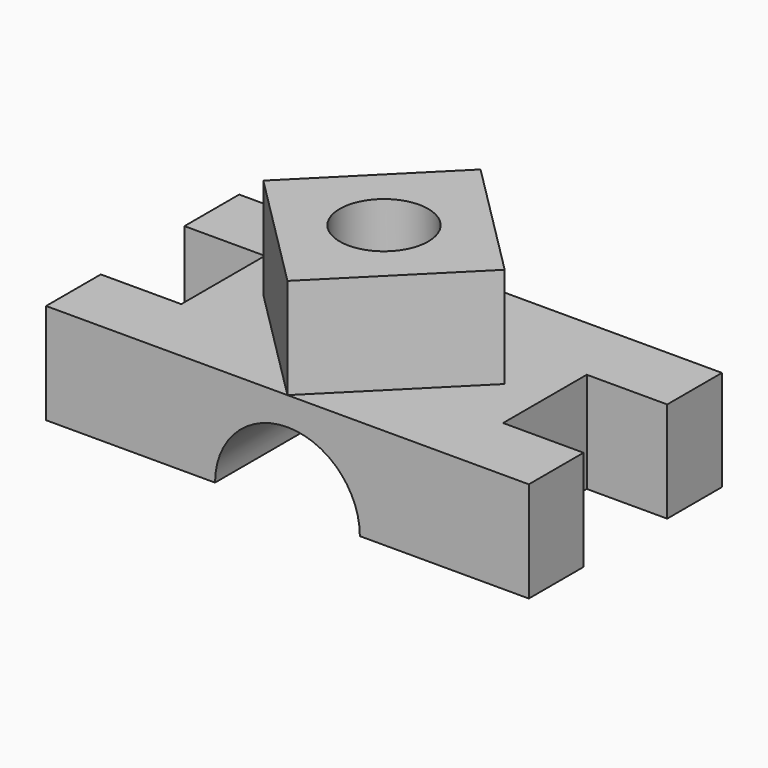
from build123d import *

# Parameters (mm, degrees)
F1_DEPTH  = 600
F2_W      = 400
F2_H      = 260
F3_DEPTH  = 250.001
F4_W      = 400
F4_H      = 260
F5_DEPTH  = 250.001
F7_DEPTH  = 250
F9_DEPTH  = 250
F10_R     = 110
F11_DEPTH = 500.001


with BuildPart() as f1:
    # F0 (on Front) → F1 (new body)
    with BuildSketch(Plane.XZ):
        with BuildLine():
            Line((-600, 125), (-600, -125))
            Line((-600, -125), (-180, -125))
            ThreePointArc((-180, -125), (0, 55), (180, -125))
            Line((180, -125), (600, -125))
            Line((600, -125), (600, 125))
            Line((600, 125), (300, 125))
            Line((300, 125), (300, 375))
            Line((300, 375), (-300, 375))
            Line((-300, 375), (-300, 125))
            Line((-300, 125), (-600, 125))
        make_face()
    extrude(amount=F1_DEPTH)

    # F2 (on face) → F3 (cut, through all)
    with BuildSketch(Plane.XY.offset(125)):
        with Locations((-600, -300)):
            Rectangle(F2_W, F2_H)
    extrude(amount=-F3_DEPTH, mode=Mode.SUBTRACT)

    # F4 (on face) → F5 (cut, through all)
    with BuildSketch(Plane.XY.offset(125)):
        with Locations((600, -300)):
            Rectangle(F4_W, F4_H)
    extrude(amount=-F5_DEPTH, mode=Mode.SUBTRACT)

    # F6 (on face) → F7 (cut)
    with BuildSketch(Plane.XY.offset(375)):
        Polygon((300, -600), (300, -300), (0, -600), align=None)
        Polygon((-300, 0), (-300, -300), (0, 0), align=None)
        Polygon((-300, -600), (0, -600), (-300, -300), align=None)
    extrude(amount=-F7_DEPTH, mode=Mode.SUBTRACT)

    # F8 (on face) → F9 (cut)
    with BuildSketch(Plane.XY.offset(375)):
        Polygon((300, 0), (0, 0), (300, -300), align=None)
    extrude(amount=-F9_DEPTH, mode=Mode.SUBTRACT)

    # F10 (on face) → F11 (cut, through all)
    with BuildSketch(Plane.XY.offset(375)):
        with Locations((0, -300)):
            Circle(F10_R)
    extrude(amount=-F11_DEPTH, mode=Mode.SUBTRACT)


solid = f1.part
